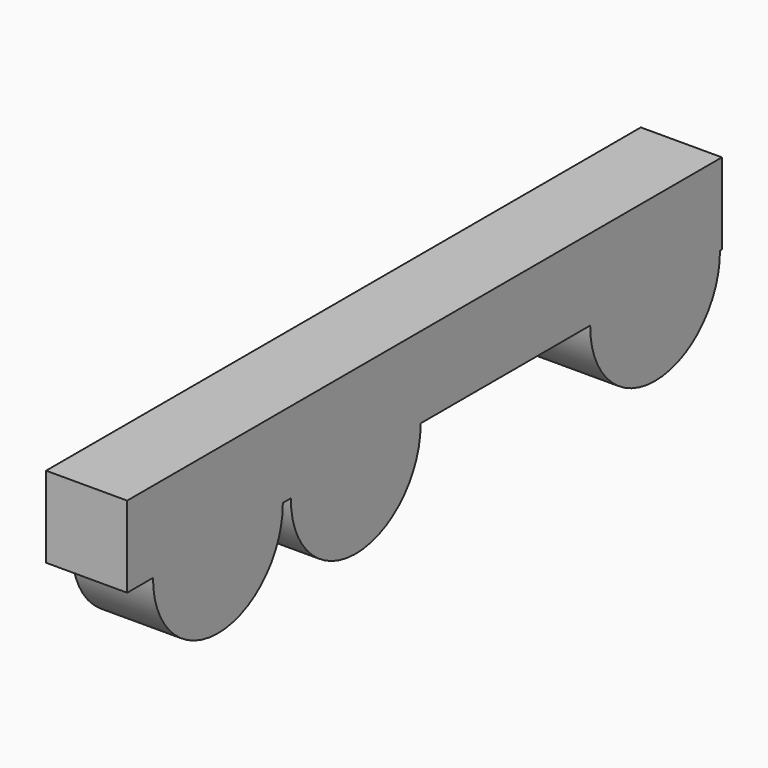
from build123d import *

# Parameters (mm, degrees)
F1_DEPTH = 600


with BuildPart() as f1:
    # F0 (on Right) → F1 (new body)
    with BuildSketch(Plane.YZ):
        with BuildLine():
            ThreePointArc((-1400.512838, 0), (-1400.518835, 2.682629), (-1400.536827, 5.365205))
            Line((-1400.536827, 5.365205), (-2600.48885, 5.365205))
            ThreePointArc((-2600.48885, 5.365205), (-2003.195468, -599.994003), (-1400.512838, 0))
        make_face()
        with BuildLine():
            Line((-2600.48885, 5.365205), (-1400.536827, 5.365205))
            ThreePointArc((-1400.536827, 5.365205), (-2000.512838, 600), (-2600.48885, 5.365205))
        make_face()
        with BuildLine():
            ThreePointArc((1442.128471, 5.365205), (2042.104483, 600), (2642.080494, 5.365205))
            Line((2642.080494, 5.365205), (2660.37102, 5.365205))
            Line((2660.37102, 5.365205), (2660.37102, 605.365205))
            Line((2660.37102, 605.365205), (-2839.62898, 605.365205))
            Line((-2839.62898, 605.365205), (-2839.62898, 5.365205))
            Line((-2839.62898, 5.365205), (-2600.48885, 5.365205))
            ThreePointArc((-2600.48885, 5.365205), (-2000.512838, 600), (-1400.536827, 5.365205))
            Line((-1400.536827, 5.365205), (-1325.799533, 5.365205))
            ThreePointArc((-1325.799533, 5.365205), (-725.823522, 600), (-125.84751, 5.365205))
            Line((-125.84751, 5.365205), (1442.128471, 5.365205))
        make_face()
        with BuildLine():
            ThreePointArc((-125.823522, 0), (-125.829519, 2.682629), (-125.84751, 5.365205))
            Line((-125.84751, 5.365205), (-1325.799533, 5.365205))
            ThreePointArc((-1325.799533, 5.365205), (-728.506151, -599.994003), (-125.823522, 0))
        make_face()
        with BuildLine():
            Line((-1325.799533, 5.365205), (-125.84751, 5.365205))
            ThreePointArc((-125.84751, 5.365205), (-725.823522, 600), (-1325.799533, 5.365205))
        make_face()
        with BuildLine():
            ThreePointArc((1442.128471, 5.365205), (2039.421853, -599.994003), (2642.104483, 0))
            ThreePointArc((2642.104483, 0), (2642.098486, 2.682629), (2642.080494, 5.365205))
            Line((2642.080494, 5.365205), (1442.128471, 5.365205))
        make_face()
        with BuildLine():
            Line((1442.128471, 5.365205), (2642.080494, 5.365205))
            ThreePointArc((2642.080494, 5.365205), (2042.104483, 600), (1442.128471, 5.365205))
        make_face()
    extrude(amount=F1_DEPTH)


solid = f1.part
